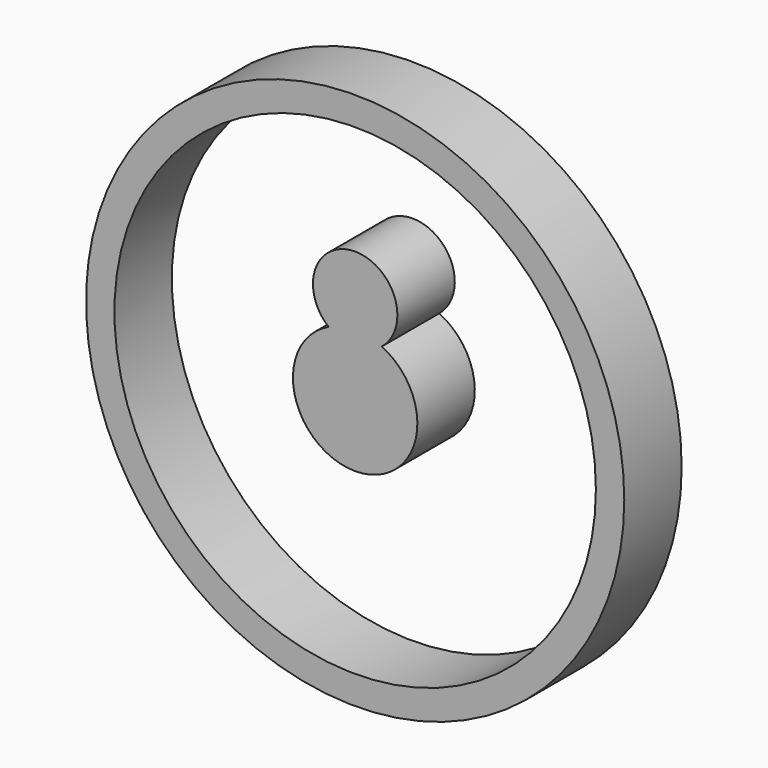
from build123d import *

# Parameters (mm, degrees)
F0_R     = 190.5
F0_R_2   = 170.410462
F1_DEPTH = 50.8


with BuildPart() as f1:
    # F0 (on Front) → F1 (new body)
    with BuildSketch(Plane.XZ):
        Circle(F0_R)
        Circle(F0_R_2, mode=Mode.SUBTRACT)
        with BuildLine():
            ThreePointArc((18.857672, 39.802754), (0, 92.867499), (-18.857672, 39.802754))
            ThreePointArc((-18.857672, 39.802754), (0, -44.043967), (18.857672, 39.802754))
        make_face()
    extrude(amount=F1_DEPTH)


solid = f1.part
